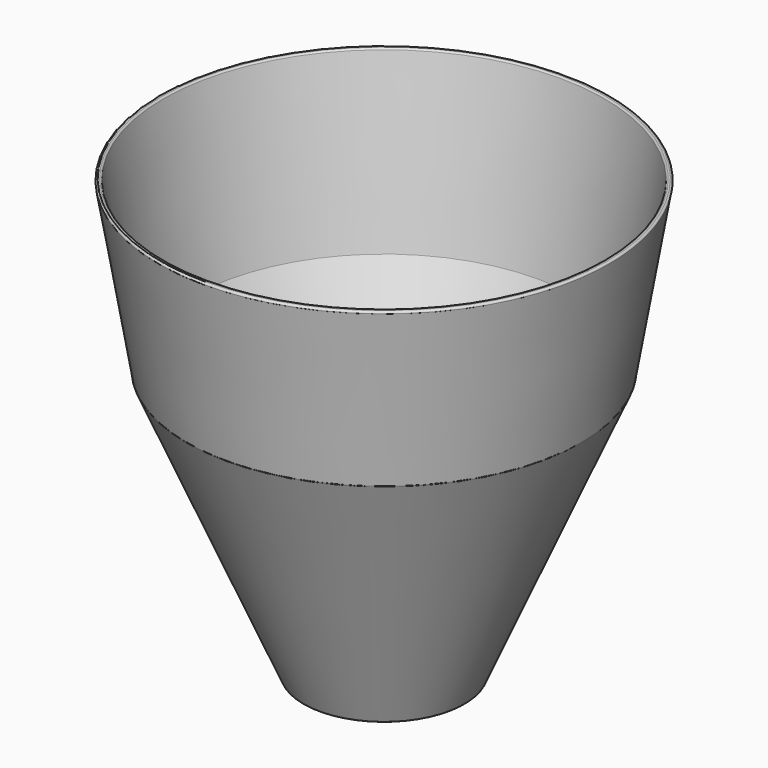
from build123d import *

# Parameters (mm, degrees)
F2_R = 0.2


with BuildPart() as f1:
    # F0 (on Front) → F1 (revolve)
    with BuildSketch(Plane.XZ):
        Polygon((-9.397269, 0), (0, 0), (0, 1.2), (-7.881581, 1.2), (-22.48004, 31.581658), (-25.777418, 51.066163), (-26.372984, 51.066163), (-23.038469, 31.36221), align=None)
    revolve(axis=Axis((0, 0, 0.6), (0, 0, -1)))

    # F2
    f2_edges = [f1.edges().sort_by_distance(p)[0] for p in [
        (23.038469, 0, 31.36221),
        (26.372984, 0, 51.066163),
        (9.397269, 0, 0),
        (25.777418, 0, 51.066163),
    ]]
    fillet(f2_edges, radius=F2_R)


solid = f1.part
